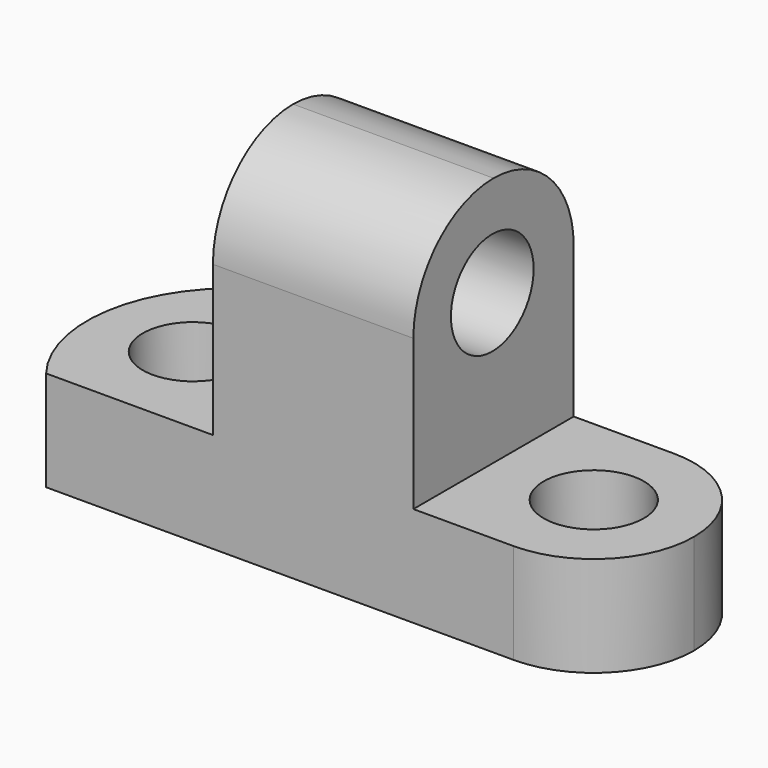
from build123d import *

# Parameters (mm, degrees)
F0_W      = 76.2
F0_H      = 44.45
F1_DEPTH  = 25.4
F2_W      = 25.4
F2_H      = 31.75
F3_DEPTH  = 25.4
F4_R      = 6.5486317255
F5_DEPTH  = 25.4
F6_R      = 6.35
F7_DEPTH  = 25.4
F9_DEPTH  = 25.4
F10_R     = 6.35
F11_DEPTH = 25.4


with BuildPart() as f1:
    # F0 (on Front) → F1 (new body)
    with BuildSketch(Plane.XZ):
        with Locations((38.1, 22.225)):
            Rectangle(F0_W, F0_H)
    extrude(amount=F1_DEPTH)

    # F2 (on face) → F3 (cut)
    with BuildSketch(Plane.XZ.offset(25.4)):
        with Locations((63.5, 28.575)):
            Rectangle(F2_W, F2_H)
        with Locations((12.7, 28.575)):
            Rectangle(F2_W, F2_H)
    extrude(amount=-F3_DEPTH, mode=Mode.SUBTRACT)

    # F4 (on face) → F5 (cut)
    with BuildSketch(Plane.YZ.offset(50.8)):
        with Locations((-12.8986317255, 31.7515534242)):
            Circle(F4_R)
        with BuildLine():
            ThreePointArc((-25.4, 31.75), (-21.6802561211, 40.7302561211), (-12.7, 44.45))
            Line((-12.7, 44.45), (-25.4, 44.45))
            Line((-25.4, 44.45), (-25.4, 31.75))
        make_face()
        with BuildLine():
            ThreePointArc((-12.7, 44.45), (-3.7197438789, 40.7302561211), (0, 31.75))
            Line((0, 31.75), (0, 44.45))
            Line((0, 44.45), (-12.7, 44.45))
        make_face()
    extrude(amount=-F5_DEPTH, mode=Mode.SUBTRACT)

    # F6 (on face) → F7 (cut)
    with BuildSketch(Plane.XY.offset(12.7)):
        with Locations((63.5, -12.7)):
            Circle(F6_R)
    extrude(amount=-F7_DEPTH, mode=Mode.SUBTRACT)

    # F8 (on face) → F9 (cut)
    with BuildSketch(Plane.XY.offset(12.7)):
        with BuildLine():
            ThreePointArc((63.5, 0), (72.4802561211, -3.7197438789), (76.2, -12.7))
            Line((76.2, -12.7), (76.2, 0))
            Line((76.2, 0), (63.5, 0))
        make_face()
        with BuildLine():
            ThreePointArc((76.2, -12.7), (72.4802561211, -21.6802561211), (63.5, -25.4))
            Line((63.5, -25.4), (76.2, -25.4))
            Line((76.2, -25.4), (76.2, -12.7))
        make_face()
    extrude(amount=-F9_DEPTH, mode=Mode.SUBTRACT)

    # F10 (on face) → F11 (cut)
    with BuildSketch(Plane.XY.offset(12.7)):
        with BuildLine():
            ThreePointArc((4.2558507994, -25.4), (0.4710381636, -12.1911505721), (6.809362676, 0))
            Line((6.809362676, 0), (0, 0))
            Line((0, 0), (0, -25.4))
            Line((0, -25.4), (4.2558507994, -25.4))
        make_face()
        with Locations((12.7, -12.7)):
            Circle(F10_R)
    extrude(amount=-F11_DEPTH, mode=Mode.SUBTRACT)


solid = f1.part
